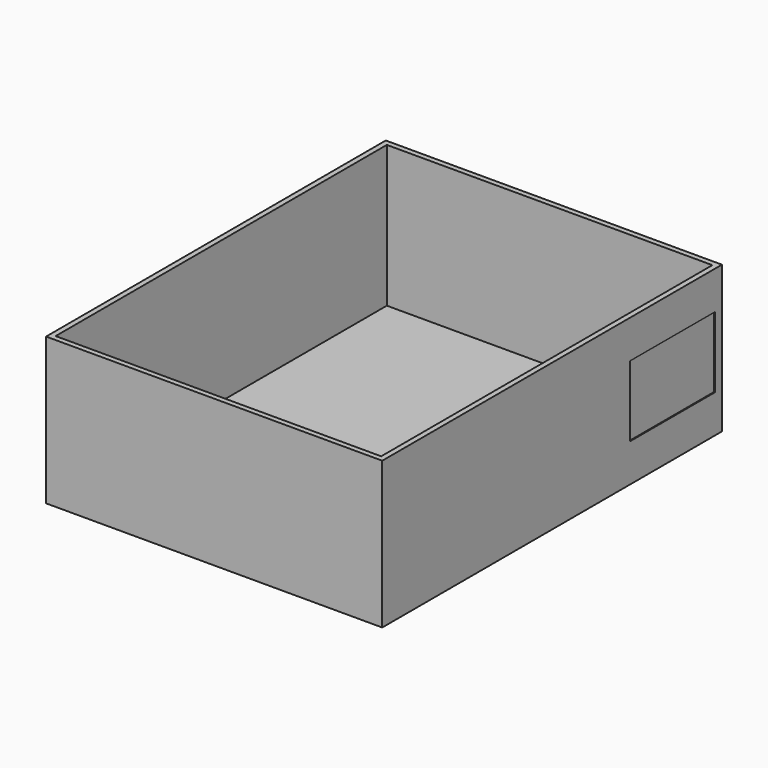
from build123d import *

# Parameters (mm, degrees)
F0_W     = 190
F0_H     = 240
F1_DEPTH = 3
F2_W     = 190
F2_H     = 240
F2_W_2   = 184
F2_H_2   = 234
F3_DEPTH = 80
F4_W     = 60
F4_H     = 40
F5_DEPTH = 0.5
F6_W     = 60
F6_H     = 40
F7_DEPTH = 0.5


with BuildPart() as f1:
    # F0 (on Top) → F1 (new body)
    with BuildSketch(Plane.XY):
        with Locations((-3.855437, -43.830654)):
            Rectangle(F0_W, F0_H)
    extrude(amount=F1_DEPTH)

    # F2 (on face) → F3 (join)
    with BuildSketch(Plane.XY.offset(3)):
        with Locations((-3.855437, -43.830654)):
            Rectangle(F2_W, F2_H)
        with Locations((-3.855437, -43.830654)):
            Rectangle(F2_W_2, F2_H_2, mode=Mode.SUBTRACT)
    extrude(amount=F3_DEPTH)

    # F4 (on face) → F5 (cut)
    with BuildSketch(Plane(origin=(-98.855437, 0, 0), x_dir=(0, -1, 0), z_dir=(-1, 0, 0))):
        with Locations((-41.169346, 41.5)):
            Rectangle(F4_W, F4_H)
    extrude(amount=-F5_DEPTH, mode=Mode.SUBTRACT)

    # F6 (on face) → F7 (cut)
    with BuildSketch(Plane.YZ.offset(91.144563)):
        with Locations((41.169346, 41.5)):
            Rectangle(F6_W, F6_H)
    extrude(amount=-F7_DEPTH, mode=Mode.SUBTRACT)


solid = f1.part
